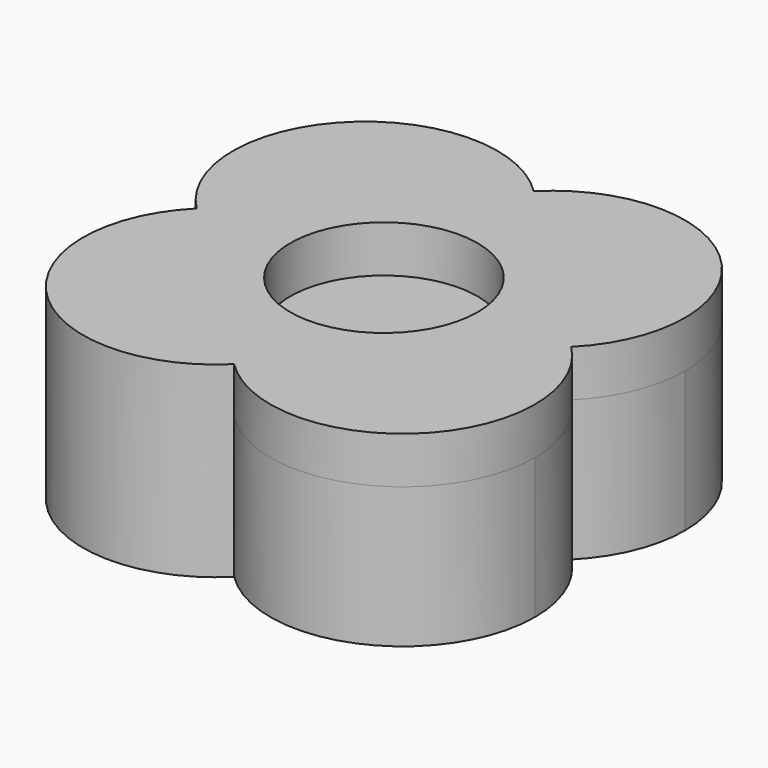
from build123d import *

# Parameters (mm, degrees)
F1_DEPTH = 15
F2_R     = 10
F3_DEPTH = 5


with BuildPart() as f1:
    # F0 (on Top) → F1 (new body)
    with BuildSketch(Plane.XY):
        with BuildLine():
            ThreePointArc((-4.3e-09, 4.3e-09), (-4.1421356237, 10.000000003), (0, 20))
            ThreePointArc((0, 20), (-20, 20), (-20, 0))
            ThreePointArc((-20, 0), (-10.000000003, 4.1421356237), (-4.3e-09, 4.3e-09))
        make_face()
        with BuildLine():
            ThreePointArc((20, 0), (23.0656296488, 4.5880389985), (24.1421356237, 10))
            ThreePointArc((24.1421356237, 10), (15.4119610015, 23.0656296488), (0, 20))
            ThreePointArc((0, 20), (3.0656296488, 15.4119610015), (4.1421356237, 10))
            ThreePointArc((4.1421356237, 10), (3.0656296518, 4.5880390059), (1.12e-08, 1.12e-08))
            ThreePointArc((1.12e-08, 1.12e-08), (10.0000000079, 4.1421356237), (20, 0))
        make_face()
        with BuildLine():
            ThreePointArc((4.1421356237, 10), (3.0656296488, 15.4119610015), (0, 20))
            ThreePointArc((0, 20), (-4.1421356237, 10.000000003), (-4.3e-09, 4.3e-09))
            ThreePointArc((1.12e-08, 1.12e-08), (3.0656296518, 4.5880390059), (4.1421356237, 10))
        make_face()
        with BuildLine():
            ThreePointArc((-20, 0), (-9.9999999921, -4.1421356237), (1.12e-08, 1.12e-08))
            ThreePointArc((-4.3e-09, 4.3e-09), (-10.000000003, 4.1421356237), (-20, 0))
        make_face()
        with BuildLine():
            ThreePointArc((4.1421356237, -10), (3.0656296476, -4.5880389957), (-4.3e-09, 4.3e-09))
            ThreePointArc((1.12e-08, 1.12e-08), (-4.1421356237, -9.9999999921), (0, -20))
            ThreePointArc((0, -20), (3.0656296488, -15.4119610015), (4.1421356237, -10))
        make_face()
        with BuildLine():
            ThreePointArc((-4.3e-09, 4.3e-09), (9.999999997, -4.1421356237), (20, 0))
            ThreePointArc((20, 0), (10.0000000079, 4.1421356237), (1.12e-08, 1.12e-08))
        make_face()
        with BuildLine():
            ThreePointArc((24.1421356237, -10), (23.0656296488, -4.5880389985), (20, 0))
            ThreePointArc((20, 0), (9.999999997, -4.1421356237), (-4.3e-09, 4.3e-09))
            ThreePointArc((-4.3e-09, 4.3e-09), (3.0656296476, -4.5880389957), (4.1421356237, -10))
            ThreePointArc((4.1421356237, -10), (3.0656296488, -15.4119610015), (0, -20))
            ThreePointArc((0, -20), (15.4119610015, -23.0656296488), (24.1421356237, -10))
        make_face()
        with BuildLine():
            ThreePointArc((0, -20), (-4.1421356237, -9.9999999921), (1.12e-08, 1.12e-08))
            ThreePointArc((1.12e-08, 1.12e-08), (-9.9999999921, -4.1421356237), (-20, 0))
            ThreePointArc((-20, 0), (-20, -20), (0, -20))
        make_face()
    extrude(amount=F1_DEPTH)

    # F2 (on face) → F3 (join)
    with BuildSketch(Plane.XY.offset(15)):
        with BuildLine():
            ThreePointArc((20, 0), (20, 20), (0, 20))
            ThreePointArc((0, 20), (-20, 20), (-20, 0))
            ThreePointArc((-20, 0), (-20, -20), (0, -20))
            ThreePointArc((0, -20), (20, -20), (20, 0))
        make_face()
        Circle(F2_R, mode=Mode.SUBTRACT)
    extrude(amount=F3_DEPTH)


solid = f1.part
